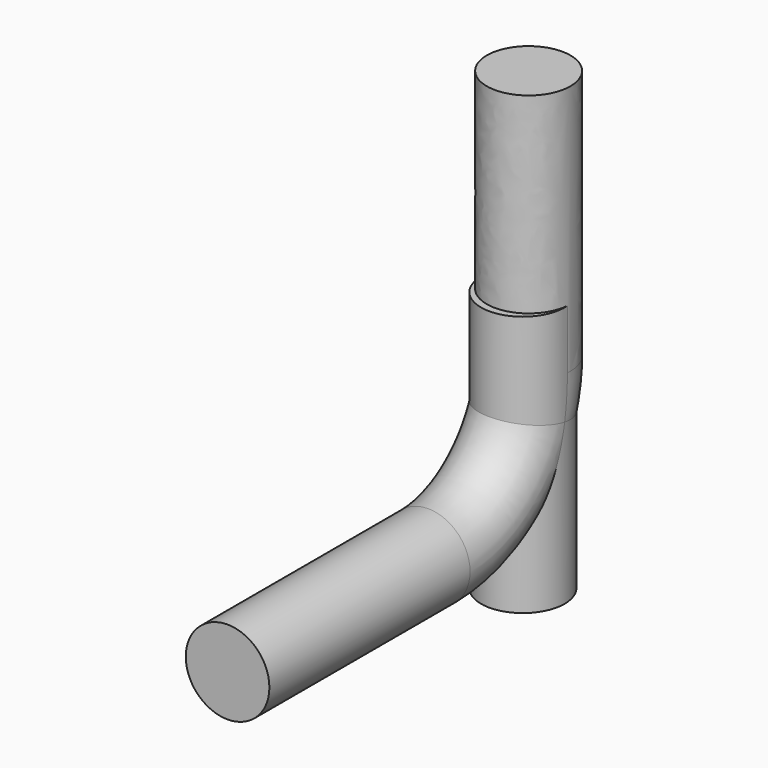
from build123d import *

# Parameters (mm, degrees)
F0_R     = 500
F4_R     = 500
F5_DEPTH = 3120


with BuildPart() as f2:
    # F2: sweep along a path in F1
    with BuildLine(Plane.YZ) as f2_path:
        Line((0, 0), (3000, 0))
        ThreePointArc((3000, 0), (4060.660172, 439.339828), (4500, 1500))
        Line((4500, 1500), (4500, 4500))
    # F0 (on Front) → F2 (sweep)
    with BuildSketch(Plane.XZ):
        Circle(F0_R)
    sweep(path=f2_path.line)

    # F4 (on face) → F5 (join)
    with BuildSketch(Plane(origin=(0, 0, -914.213562), x_dir=(1, 0, 0), z_dir=(0, 0, -1))):
        with Locations((0, -4414.026737)):
            Circle(F4_R)
    extrude(amount=-F5_DEPTH)


solid = f2.part
